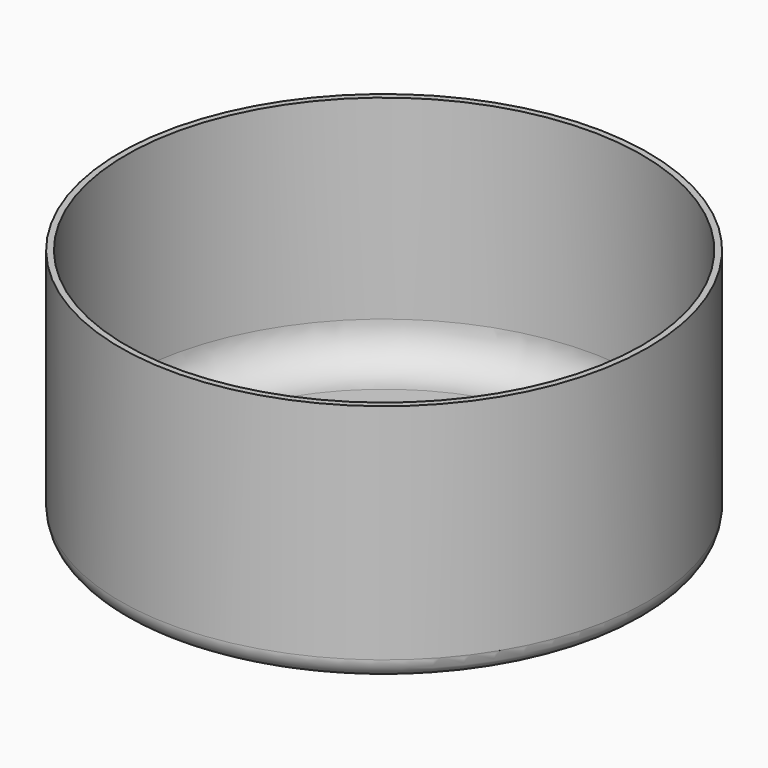
from build123d import *

# Parameters (mm, degrees)
F0_R     = 32.5
F1_DEPTH = 30
F2_R     = 31.75
F3_DEPTH = 29
F4_R     = 5
F5_R     = 2.5


with BuildPart() as f1:
    # F0 (on Top) → F1 (new body)
    with BuildSketch(Plane.XY):
        Circle(F0_R)
    extrude(amount=F1_DEPTH)

    # F2 (on face) → F3 (cut)
    with BuildSketch(Plane.XY.offset(30)):
        Circle(F2_R)
    extrude(amount=-F3_DEPTH, mode=Mode.SUBTRACT)

    # F4
    f4_edges = [f1.edges().sort_by_distance(p)[0] for p in [
        (-31.75, 0, 1),
    ]]
    fillet(f4_edges, radius=F4_R)

    # F5
    f5_edges = [f1.edges().sort_by_distance(p)[0] for p in [
        (-32.5, 0, 0),
    ]]
    fillet(f5_edges, radius=F5_R)


solid = f1.part
